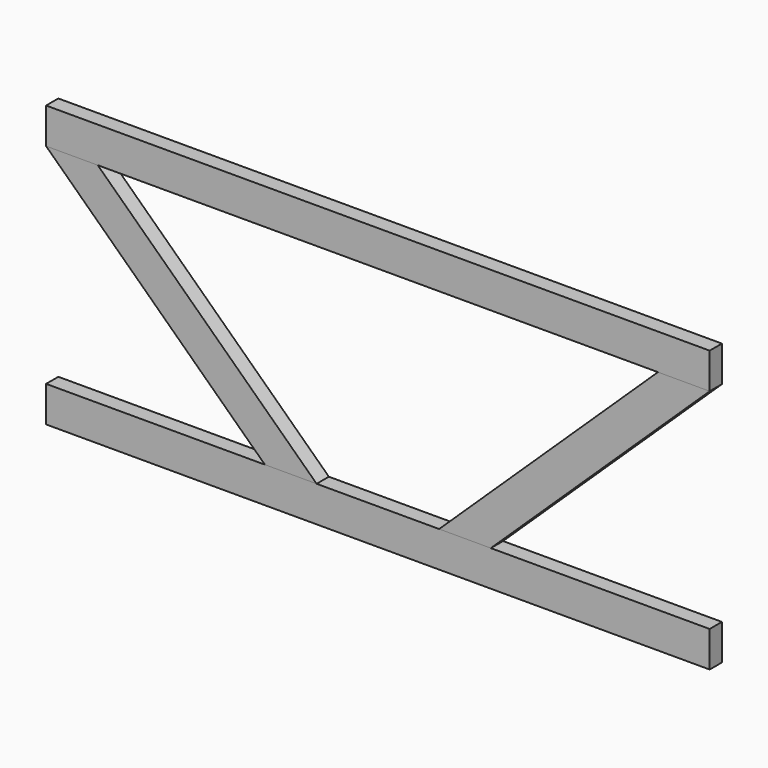
from build123d import *

# Parameters (mm, degrees)
F0_W     = 1651
F0_H     = 88.9
F1_DEPTH = 19.05
F6_DEPTH = 38.1


with BuildPart() as f1:
    # F0 (on Front) → F1 (new body, symmetric)
    with BuildSketch(Plane.XZ):
        with Locations((825.5, 44.45)):
            Rectangle(F0_W, F0_H)
    extrude(amount=F1_DEPTH, both=True)


with BuildPart() as f3_1:
    # F3: instance of F1
    add(f1.part.mirror(Plane.XY.offset(349.25)))


with BuildPart() as f6:
    # F5 (on face) → F6 (new body)
    with BuildSketch(Plane.XZ.offset(19.05)):
        Polygon((673.1, 88.9), (128.625769, 609.6), (0, 609.6), (544.474231, 88.9), align=None)
    extrude(amount=-F6_DEPTH)


with BuildPart() as f8_1:
    # F8: instance of F6
    add(f6.part.mirror(Plane.YZ.offset(825.5)))


solid = Compound([f1.part, f3_1.part, f6.part, f8_1.part])
